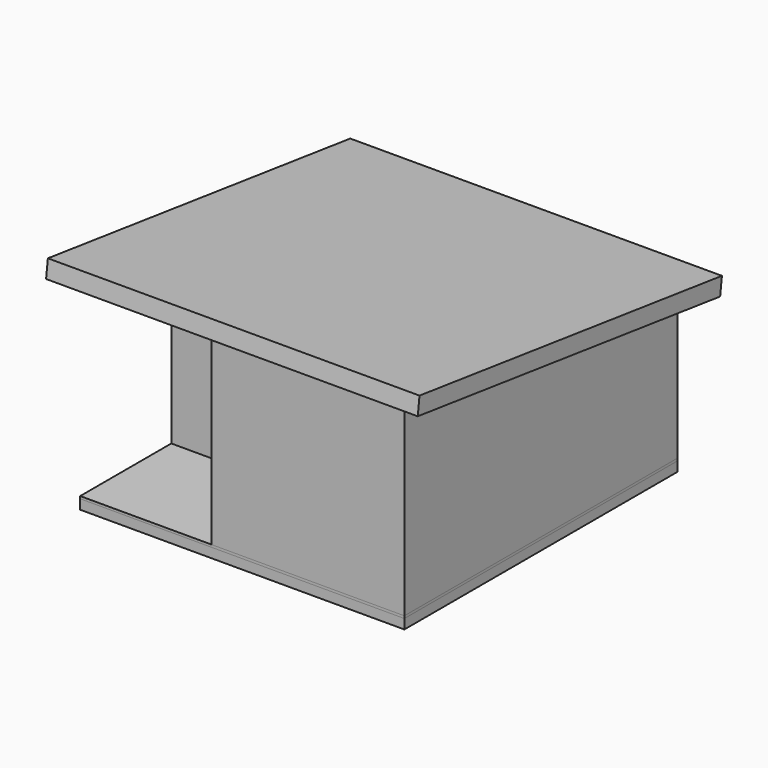
from build123d import *

# Parameters (mm, degrees)
F2_DEPTH      = 701.04
F2_DEPTH_BACK = 1257.3
F4_W          = 1708.15
F4_H          = 1800.225
F5_DEPTH      = 12.7
F6_W          = 1708.15
F6_H          = 1800.225
F6_W_2        = 1606.55
F6_H_2        = 1698.625
F7_DEPTH      = 50.8


with BuildPart() as f2:
    # F1 (on Right) → F2 (new body, two sides)
    with BuildSketch(Plane.YZ) as f2_sk:
        Polygon((-690.0275279216, 1107.3353273339), (-701.675, 1016), (1290.1025279216, 762), (1301.75, 853.3353273339), align=None)
    extrude(amount=F2_DEPTH)
    extrude(f2_sk.sketch, amount=-F2_DEPTH_BACK)


with BuildPart() as f3:
    # F0 (on Top) → F3 (new body, up to the next surface of F2)
    with BuildSketch(Plane.XY):
        Polygon((549.275, -600.075), (549.275, 1200.15), (-1158.875, 1200.15), (-1158.875, 0), (0, 0), (0, 92.075), (-1066.8, 92.075), (-1066.8, 1108.075), (457.2, 1108.075), (457.2, -508), (-466.725, -508), (-466.725, -600.075), align=None)
    extrude(until=Until.NEXT, target=f2.part)


with BuildPart() as f5:
    # F4 (on face) → F5 (new body)
    with BuildSketch(Plane(origin=(0, 0, 0), x_dir=(1, 0, 0), z_dir=(0, 0, -1))):
        with Locations((-304.8, -300.0375)):
            Rectangle(F4_W, F4_H)
    extrude(amount=F5_DEPTH)


with BuildPart() as f7:
    # F6 (on face) → F7 (new body)
    with BuildSketch(Plane(origin=(0, 0, -12.7), x_dir=(1, 0, 0), z_dir=(0, 0, -1))):
        with Locations((-304.8, -300.0375)):
            Rectangle(F6_W, F6_H)
        with Locations((-304.8, -300.0375)):
            Rectangle(F6_W_2, F6_H_2, mode=Mode.SUBTRACT)
    extrude(amount=F7_DEPTH)


solid = Compound([f2.part, f3.part, f5.part, f7.part])
